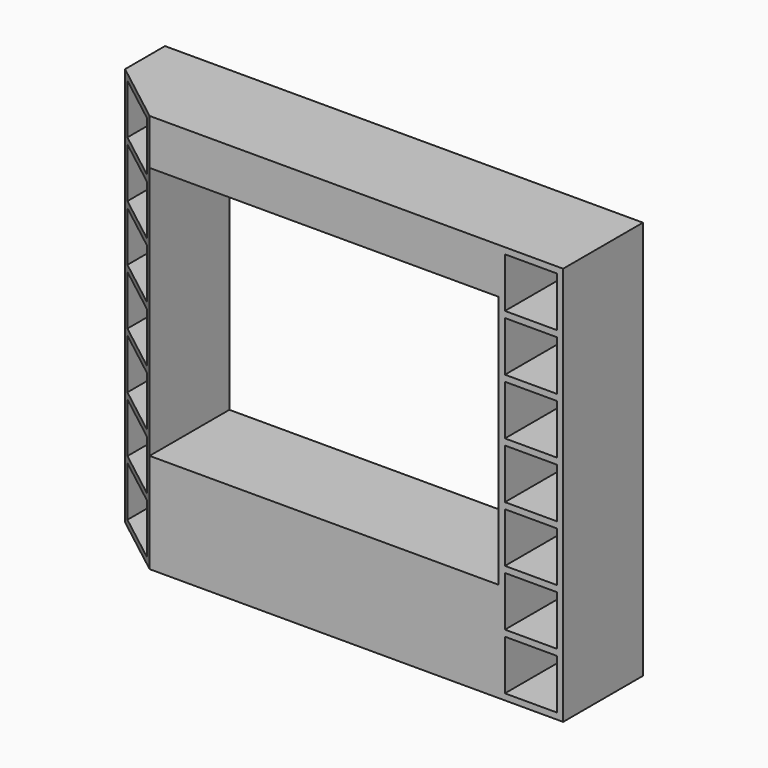
from build123d import *

# Parameters (mm, degrees)
F1_DEPTH = 2438.4
F2_W     = 2133.6
F2_H     = 1549.4
F3_DEPTH = 609.6
F4_W     = 317.5
F4_H     = 304.8
F5_DEPTH = 584.2


with BuildPart() as f1:
    # F0 (on Top) → F1 (new body)
    with BuildSketch(Plane.XY):
        Polygon((1460.5, 0), (-1460.5, 0), (-1460.5, -304.8), (-1066.8, -609.6), (0, -609.6), (1460.5, -609.6), (1460.5, -304.8), align=None)
    extrude(amount=F1_DEPTH)

    # F2 (on face) → F3 (cut)
    with BuildSketch(Plane.XZ.offset(609.6)):
        with Locations((0, 1384.3)):
            Rectangle(F2_W, F2_H)
    extrude(amount=-F3_DEPTH, mode=Mode.SUBTRACT)

    # F4 (on face) → F5 (cut)
    with BuildSketch(Plane.XZ.offset(609.6)):
        with Locations((1263.65, 190.5)):
            Rectangle(F4_W, F4_H)
        with Locations((1263.65, 876.3)):
            Rectangle(F4_W, F4_H)
        with Locations((1263.65, 533.4)):
            Rectangle(F4_W, F4_H)
        with Locations((1263.65, 1219.2)):
            Rectangle(F4_W, F4_H)
        with Locations((1263.65, 1562.1)):
            Rectangle(F4_W, F4_H)
        with Locations((1263.65, 1905)):
            Rectangle(F4_W, F4_H)
        with Locations((1263.65, 2247.9)):
            Rectangle(F4_W, F4_H)
        with Locations((-1263.65, 2247.9)):
            Rectangle(F4_W, F4_H)
        with Locations((-1263.65, 533.4)):
            Rectangle(F4_W, F4_H)
        with Locations((-1263.65, 1905)):
            Rectangle(F4_W, F4_H)
        with Locations((-1263.65, 190.5)):
            Rectangle(F4_W, F4_H)
        with Locations((-1263.65, 876.3)):
            Rectangle(F4_W, F4_H)
        with Locations((-1263.65, 1562.1)):
            Rectangle(F4_W, F4_H)
        with Locations((-1263.65, 1219.2)):
            Rectangle(F4_W, F4_H)
    extrude(amount=-F5_DEPTH, mode=Mode.SUBTRACT)


solid = f1.part
